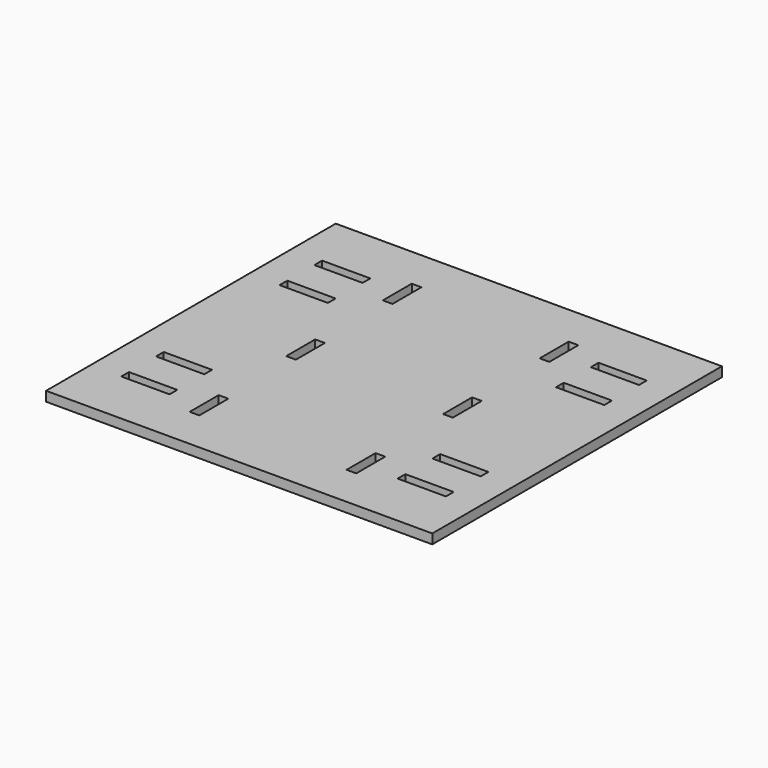
from build123d import *

# Parameters (mm, degrees)
F0_W     = 4
F0_H     = 15
F1_DEPTH = 4
F2_W     = 10
F2_H     = 2
F3_DEPTH = 25


with BuildPart() as f1:
    # F0 (on Top) → F1 (new body)
    with BuildSketch(Plane.XY):
        Polygon((0, 75), (-80, 75), (-80, -75), (0, -75), (0, 0), align=None)
        with Locations((-32.5, -50)):
            Rectangle(F0_W, F0_H, mode=Mode.SUBTRACT)
        Polygon((-30.5, 7.5), (-30.5, 0), (-30.5, -7.5), (-34.5, -7.5), (-34.5, 7.5), align=None, mode=Mode.SUBTRACT)
        with Locations((-32.5, 50)):
            Rectangle(F0_W, F0_H, mode=Mode.SUBTRACT)
        Polygon((80, 75), (0, 75), (0, 0), (0, -75), (80, -75), align=None)
        with Locations((32.5, -50)):
            Rectangle(F0_W, F0_H, mode=Mode.SUBTRACT)
        Polygon((30.5, -7.5), (30.5, 0), (30.5, 7.5), (34.5, 7.5), (34.5, -7.5), align=None, mode=Mode.SUBTRACT)
        with Locations((32.5, 50)):
            Rectangle(F0_W, F0_H, mode=Mode.SUBTRACT)
    extrude(amount=F1_DEPTH)

    # F2 (on face) → F3 (cut)
    with BuildSketch(Plane(origin=(0, 0, 0), x_dir=(1, 0, 0), z_dir=(0, 0, -1))):
        Polygon((-47.25, 34), (-57.25, 34), (-67.25, 34), (-67.25, 30), (-47.25, 30), align=None)
        Polygon((67.25, 34), (57.25, 34), (47.25, 34), (47.25, 30), (67.25, 30), align=None)
        with Locations((62.25, 51)):
            Rectangle(F2_W, F2_H)
        with Locations((52.25, 51)):
            Rectangle(F2_W, F2_H)
        with Locations((62.25, 49)):
            Rectangle(F2_W, F2_H)
        with Locations((52.25, 49)):
            Rectangle(F2_W, F2_H)
        with Locations((-52.25, 51)):
            Rectangle(F2_W, F2_H)
        with Locations((-62.25, 51)):
            Rectangle(F2_W, F2_H)
        with Locations((-52.25, 49)):
            Rectangle(F2_W, F2_H)
        with Locations((-62.25, 49)):
            Rectangle(F2_W, F2_H)
        Polygon((47.25, -34), (57.25, -34), (67.25, -34), (67.25, -30), (47.25, -30), align=None)
        with Locations((52.25, -49)):
            Rectangle(F2_W, F2_H)
        with Locations((62.25, -49)):
            Rectangle(F2_W, F2_H)
        with Locations((62.25, -51)):
            Rectangle(F2_W, F2_H)
        with Locations((52.25, -51)):
            Rectangle(F2_W, F2_H)
        Polygon((-67.25, -34), (-57.25, -34), (-47.25, -34), (-47.25, -30), (-67.25, -30), align=None)
        with Locations((-52.25, -49)):
            Rectangle(F2_W, F2_H)
        with Locations((-52.25, -51)):
            Rectangle(F2_W, F2_H)
        with Locations((-62.25, -49)):
            Rectangle(F2_W, F2_H)
        with Locations((-62.25, -51)):
            Rectangle(F2_W, F2_H)
    extrude(amount=-F3_DEPTH, mode=Mode.SUBTRACT)


solid = f1.part
